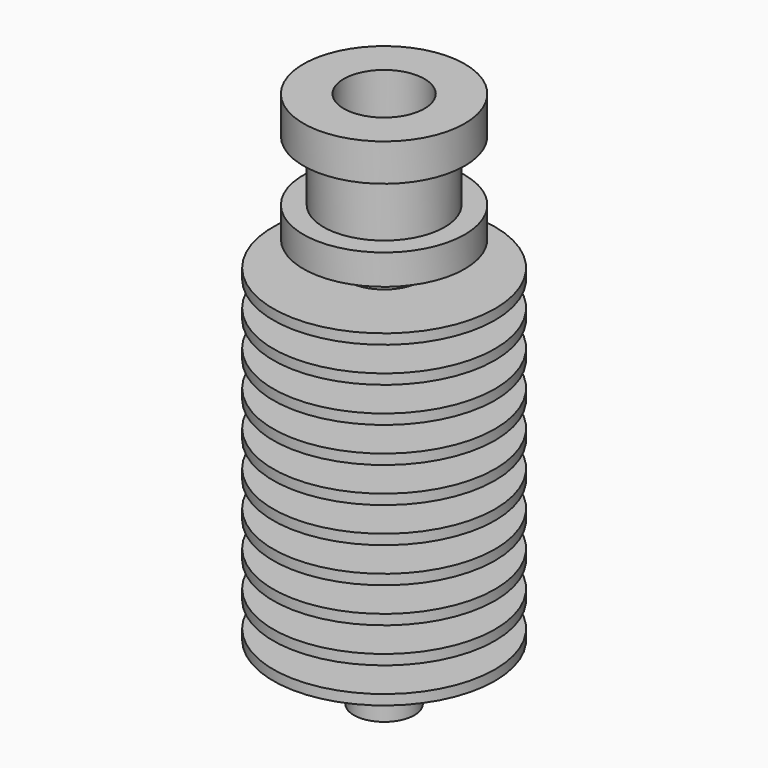
from build123d import *

# Parameters (mm, degrees)
F3_D     = 8
F3_DEPTH = 6.6
F3_TIP   = 2.4034424761


with BuildPart() as f1:
    # F0 (on Front) → F1 (revolve)
    with BuildSketch(Plane.XZ):
        Polygon((0, 43.2), (0, -10.0982880177), (3, -10.0982880177), (3, -5.0982880177), (2.75, -5.0982880177), (2.75, -4.5), (11, -4.5), (11, -3.5), (3.65, -3.5), (3.65, -1), (11, -1), (11, 0), (3.65, 0), (3.65, 2.5), (11, 2.5), (11, 3.5), (3.65, 3.5), (3.65, 6), (11, 6), (11, 7), (3.65, 7), (3.65, 9.5), (11, 9.5), (11, 10.5), (3.65, 10.5), (3.65, 13), (11, 13), (11, 14), (3.65, 14), (3.65, 16.5), (11, 16.5), (11, 17.5), (3.65, 17.5), (3.65, 20), (11, 20), (11, 21), (3.65, 21), (3.65, 23.5), (11, 23.5), (11, 24.5), (3.65, 24.5), (3.65, 27), (11, 27), (11, 28), (3.65, 28), (3.65, 30.5), (8, 30.5), (8, 33.5), (6, 33.5), (6, 39.5), (8, 39.5), (8, 43.2), align=None)
    revolve(axis=Axis((0, 0, 16.5508559911), (0, 0, -1)))

    # F3
    with Locations(Plane.XY.offset(43.2)):
        with Locations((0, 0)):
            Hole(F3_D / 2, depth=F3_DEPTH)
            with Locations((0, 0, -(F3_DEPTH + F3_TIP / 2))):  # 118° drill point
                Cone(0, F3_D / 2, F3_TIP, mode=Mode.SUBTRACT)


solid = f1.part
